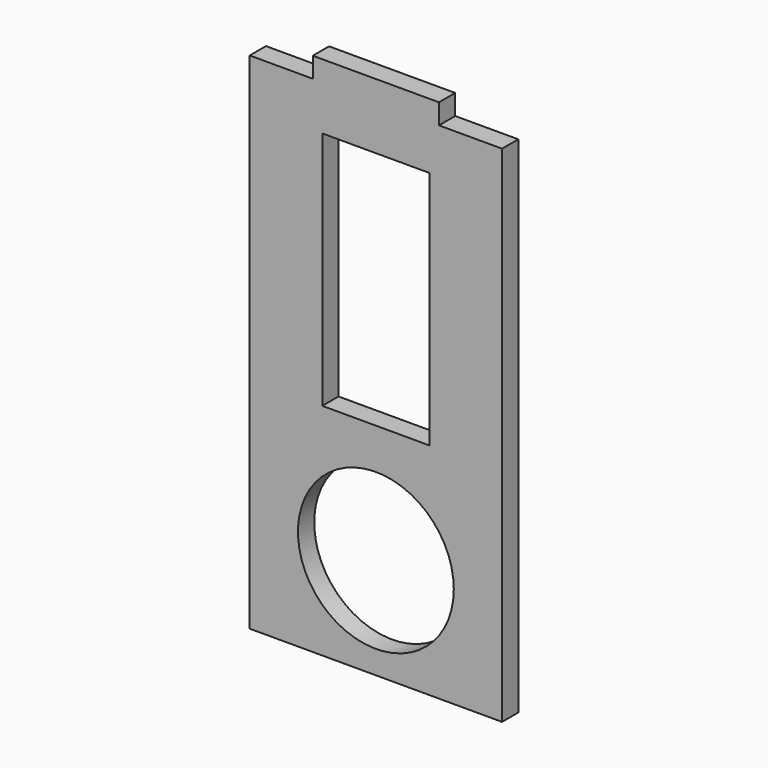
from build123d import *

# Parameters (mm, degrees)
F0_R     = 15.6845
F0_W     = 21.575728
F0_H     = 48.288538
F0_W_2   = 25.4
F0_H_2   = 4.0894
F1_DEPTH = 4.0894


with BuildPart() as f1:
    # F0 (on Front) → F1 (new body)
    with BuildSketch(Plane.XZ):
        Polygon((-25.4, -50.8), (25.4, -50.8), (25.4, 50.8), (12.7, 50.8), (-12.7, 50.8), (-25.4, 50.8), align=None)
        with Locations((0, -30.437192)):
            Circle(F0_R, mode=Mode.SUBTRACT)
        with Locations((0, 17.594494)):
            Rectangle(F0_W, F0_H, mode=Mode.SUBTRACT)
        with Locations((0, 52.8447)):
            Rectangle(F0_W_2, F0_H_2)
    extrude(amount=F1_DEPTH)


solid = f1.part
